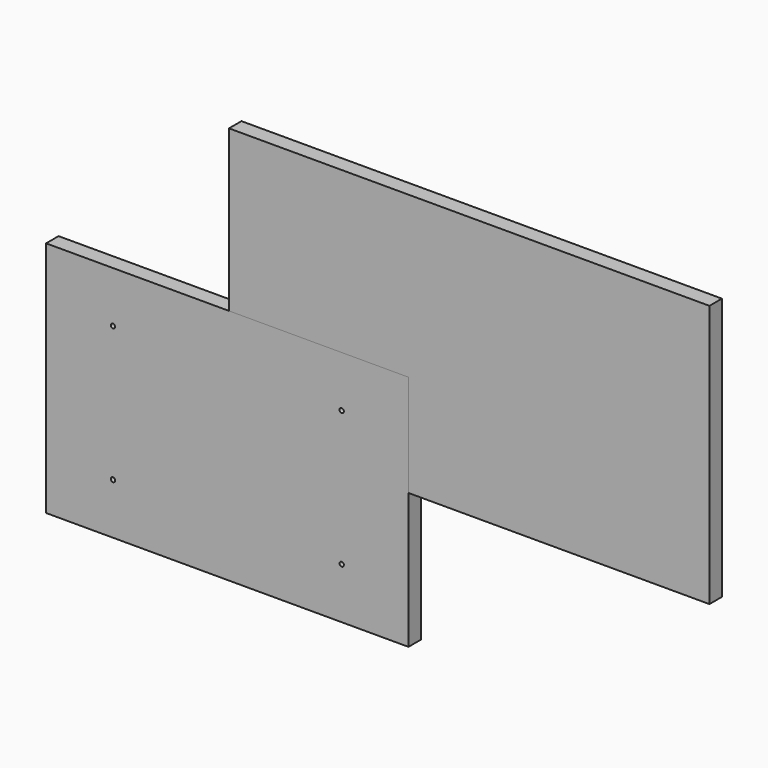
from build123d import *

# Parameters (mm, degrees)
F0_R     = 0.889
F1_DEPTH = 6.35
F3_DEPTH = 6.35
F4_DEPTH = 6.35


with BuildPart() as f1:
    # F0 (on Front) → F1 (new body)
    with BuildSketch(Plane.XZ):
        Polygon((0, 48.26), (0, 0), (147.32, 0), (147.32, 96.52), (0, 96.52), align=None)
        with Locations((27.178, 20.7518)):
            Circle(F0_R, mode=Mode.SUBTRACT)
        with Locations((120.1674, 20.7518)):
            Circle(F0_R, mode=Mode.SUBTRACT)
        with Locations((27.178, 75.7428)):
            Circle(F0_R, mode=Mode.SUBTRACT)
        with Locations((120.1674, 75.7428)):
            Circle(F0_R, mode=Mode.SUBTRACT)
    extrude(amount=F1_DEPTH)


with BuildPart() as f3:
    # F2 (on Front) → F3 (new body)
    with BuildSketch(Plane.XZ):
        Polygon((74.342263, 136.4488), (74.342263, 96.52), (147.32, 96.52), (147.32, 55.0926), (231.5718, 55.0926), (231.5718, 136.4488), align=None)
        Polygon((74.342263, 161.8488), (74.342263, 136.4488), (231.5718, 136.4488), (231.5718, 55.0926), (269.6718, 55.0926), (269.6718, 161.8488), align=None)
    extrude(amount=F3_DEPTH)


with BuildPart() as f4:
    # F2 (on Front) → F4 (new body)
    with BuildSketch(Plane.XZ):
        Polygon((74.342263, 136.4488), (74.342263, 96.52), (147.32, 96.52), (147.32, 55.0926), (231.5718, 55.0926), (231.5718, 136.4488), align=None)
    extrude(amount=-F4_DEPTH)


solid = Compound([f1.part, f3.part, f4.part])
